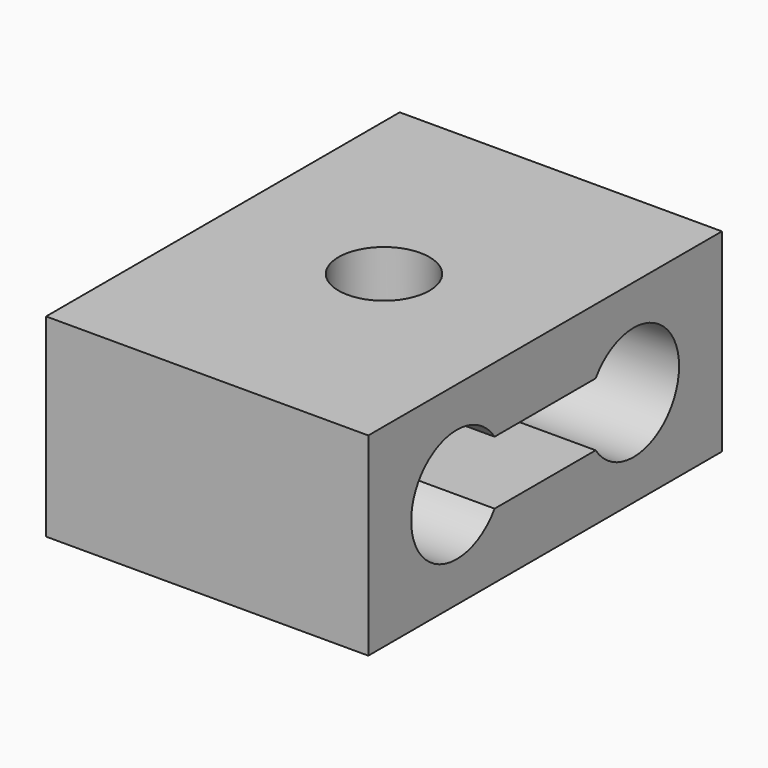
from build123d import *

# Parameters (mm, degrees)
F0_W     = 66.478894
F0_H     = 91.187872
F1_DEPTH = 40
F2_R     = 11.746633
F2_R_2   = 11.746636
F3_DEPTH = 40.386
F4_R     = 9.380712
F5_DEPTH = 25.4
F6_W     = 26.066788
F6_H     = 13.062328
F7_DEPTH = 25.4
F9_DEPTH = 36.576


with BuildPart() as f1:
    # F0 (on Top) → F1 (new body)
    with BuildSketch(Plane.XY):
        Rectangle(F0_W, F0_H)
    extrude(amount=F1_DEPTH)

    # F2 (on face) → F3 (cut)
    with BuildSketch(Plane.YZ.offset(33.239447)):
        with Locations((-22.796968, 20)):
            Circle(F2_R)
        with Locations((22.796968, 20)):
            Circle(F2_R_2)
    extrude(amount=-F3_DEPTH, mode=Mode.SUBTRACT)

    # F4 (on face) → F5 (cut)
    with BuildSketch(Plane.XY.offset(40)):
        Circle(F4_R)
    extrude(amount=-F5_DEPTH, mode=Mode.SUBTRACT)

    # F6 (on face) → F7 (cut)
    with BuildSketch(Plane.YZ.offset(33.239447)):
        with Locations((0, 20)):
            Rectangle(F6_W, F6_H)
    extrude(amount=-F7_DEPTH, mode=Mode.SUBTRACT)

    # F8 (on face) → F9 (cut)
    with BuildSketch(Plane.YZ.offset(33.239447)):
        Polygon((-9.974017, 26.531164), (-9.974017, 24.998077), (-2e-06, 20), (9.974013, 24.998077), (9.974013, 26.531164), align=None)
        Polygon((-2e-06, 20), (-9.974017, 24.998077), (-9.974017, 15.001923), align=None)
        Polygon((9.974013, 24.998077), (-2e-06, 20), (9.974013, 15.001923), align=None)
        Polygon((9.974013, 15.001923), (-2e-06, 20), (-9.974017, 15.001923), (-9.974017, 13.468836), (9.974013, 13.468836), align=None)
    extrude(amount=-F9_DEPTH, mode=Mode.SUBTRACT)


solid = f1.part
